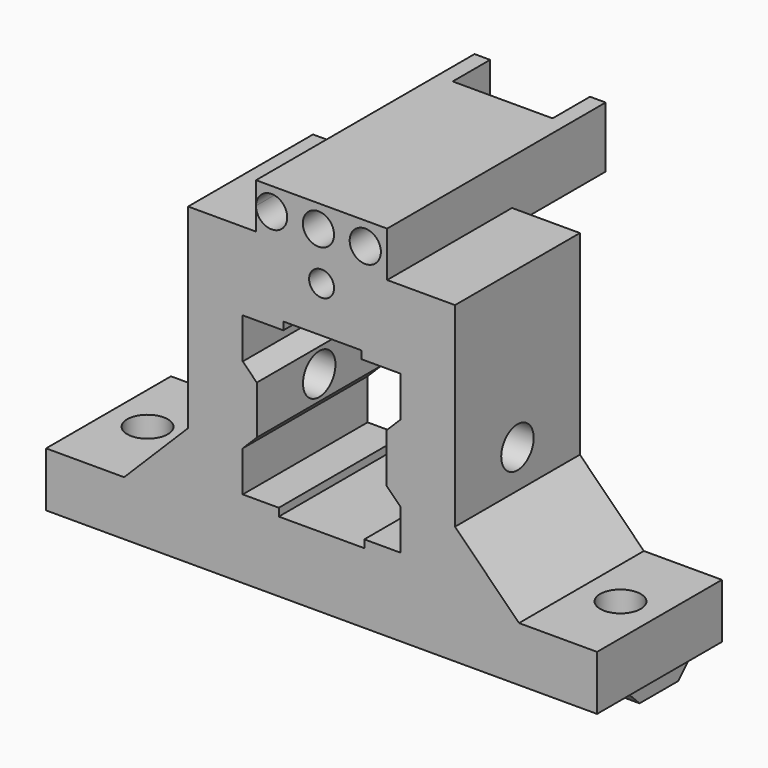
from build123d import *

# Parameters (mm, degrees)
PAD_DEPTH           = 20
SKETCH001_R         = 2.6
POCKET_DEPTH        = 100
POCKET001_DEPTH     = 40
PAD001_DEPTH        = 70.3
SKETCH004_R         = 2.6
POCKET002_DEPTH     = 10
SKETCH005_R         = 2.6
POCKET003_DEPTH     = 10
SKETCH006_W         = 10
SKETCH006_H         = 1
POCKET004_DEPTH     = 25
SKETCH007_W         = 16.8
SKETCH007_H         = 35
PAD002_DEPTH        = 5.8
SKETCH008_W         = 12.8
SKETCH008_H         = 6
POCKET005_DEPTH     = 5.8
SKETCH009_W         = 16.8
SKETCH009_H         = 2
PAD003_DEPTH        = 15
SKETCH010_R         = 2
POCKET006_DEPTH     = 40
LINEARPATTERN_COUNT = 3
LINEARPATTERN_PITCH = 6
SKETCH011_R         = 1.6
POCKET007_DEPTH     = 12


with BuildPart() as part:
    # Sketch → Pad (new body)
    with BuildSketch(Plane.XZ):
        Polygon((17.1, 10.100008), (17.1, -4.899992), (25.3, -13.099992), (35.3, -13.099992), (35.3, -20.099992), (-35.3, -20.099992), (-35.3, -13.099992), (-25.3, -13.099992), (-17.1, -4.899992), (-17.1, 10.100008), (-17.1, 20.100008), (17.1, 20.100008), align=None)
        Polygon((-10.1, 10.100008), (-10.1, 4.900008), (-8.3, 3.099992), (-8.3, -3.100008), (-10.1, -4.899992), (-10.1, -10.099992), (-5.478931, -10.099992), (-5.478931, -11.099992), (5.478931, -11.099992), (5.478931, -10.099992), (10.1, -10.099992), (10.1, -4.899992), (8.3, -3.099992), (8.3, 3.100008), (10.1, 4.900008), (10.1, 10.100008), align=None, mode=Mode.SUBTRACT)
    extrude(amount=PAD_DEPTH)

    # Sketch001 (on Face22 of Pad) → Pocket (cut)
    with BuildSketch(Plane(origin=(8.3, 0, 0), x_dir=(0, 0, -1), z_dir=(-1, 0, 0))):
        with Locations((0, 10)):
            Circle(SKETCH001_R)
    extrude(amount=-POCKET_DEPTH, mode=Mode.SUBTRACT)

    # Sketch001 (on Face22 of Pad) → Pocket001 (cut)
    with BuildSketch(Plane(origin=(8.3, 0, 0), x_dir=(0, 0, -1), z_dir=(-1, 0, 0))):
        with Locations((0, 10)):
            Circle(SKETCH001_R)
    extrude(amount=POCKET001_DEPTH, mode=Mode.SUBTRACT)

    # Sketch003 → Pad001 (join)
    with BuildSketch(Plane(origin=(35.15, 0, 0), x_dir=(0, 0, 1), z_dir=(1, 0, 0))):
        Polygon((-20.000008, 14.8), (-20.000008, 5), (-21.800008, 6.8), (-21.800008, 13), align=None)
    extrude(amount=-PAD001_DEPTH)

    # Sketch004 (on Face3 of Pad001) → Pocket002 (cut)
    with BuildSketch(Plane(origin=(0, 0, -13.099992), x_dir=(-1, 0, 0), z_dir=(0, 0, 1))):
        with Locations((-30.3, 10)):
            Circle(SKETCH004_R)
    extrude(amount=-POCKET002_DEPTH, mode=Mode.SUBTRACT)

    # Sketch005 (on Face12 of Pocket002) → Pocket003 (cut)
    with BuildSketch(Plane(origin=(0, 0, -13.099992), x_dir=(-1, 0, 0), z_dir=(0, 0, 1))):
        with Locations((30.3, 10)):
            Circle(SKETCH005_R)
    extrude(amount=-POCKET003_DEPTH, mode=Mode.SUBTRACT)

    # Sketch006 (on Face4 of Pocket003) → Pocket004 (cut)
    with BuildSketch(Plane(origin=(0, 0, 0), x_dir=(1, 0, 0), z_dir=(0, 1, 0))):
        with Locations((0.1, -10.600008)):
            Rectangle(SKETCH006_W, SKETCH006_H)
    extrude(amount=-POCKET004_DEPTH, mode=Mode.SUBTRACT)

    # Sketch007 (on Face6 of Pocket004) → Pad002 (join)
    with BuildSketch(Plane(origin=(0, 0, 20.100008), x_dir=(-1, 0, 0), z_dir=(0, 0, 1))):
        with Locations((0, 2.5)):
            Rectangle(SKETCH007_W, SKETCH007_H)
    extrude(amount=PAD002_DEPTH)

    # Sketch008 (on Face46 of Pad002) → Pocket005 (cut)
    with BuildSketch(Plane(origin=(0, 0, 25.900008), x_dir=(-1, 0, 0), z_dir=(0, 0, 1))):
        with Locations((0, -12)):
            Rectangle(SKETCH008_W, SKETCH008_H)
    extrude(amount=-POCKET005_DEPTH, mode=Mode.SUBTRACT)

    # Sketch009 (on Face4 of Pocket005) → Pad003 (join)
    with BuildSketch(Plane(origin=(0, 0, 0), x_dir=(1, 0, 0), z_dir=(0, 1, 0))):
        with Locations((0, -19.100008)):
            Rectangle(SKETCH009_W, SKETCH009_H)
    extrude(amount=PAD003_DEPTH)

    # Sketch010 (on Face46 of Pad003) → Pocket006 (cut)
    with BuildSketch(Plane(origin=(0, 9, 0), x_dir=(1, 0, 0), z_dir=(0, 1, 0))):
        with Locations((-6.4, -23.000008)):
            Circle(SKETCH010_R)
    pocket006 = extrude(amount=-POCKET006_DEPTH, mode=Mode.SUBTRACT)

    # LinearPattern: Pocket006 ×3
    with Locations(*[(i * LINEARPATTERN_PITCH, 0, 0) for i in range(1, LINEARPATTERN_COUNT)]):
        add(pocket006, mode=Mode.SUBTRACT)

    # Sketch011 (on Face5 of LinearPattern) → Pocket007 (cut)
    with BuildSketch(Plane.XZ.offset(20)):
        with Locations((0, 16.970566)):
            Circle(SKETCH011_R)
    extrude(amount=-POCKET007_DEPTH, mode=Mode.SUBTRACT)


solid = part.part
